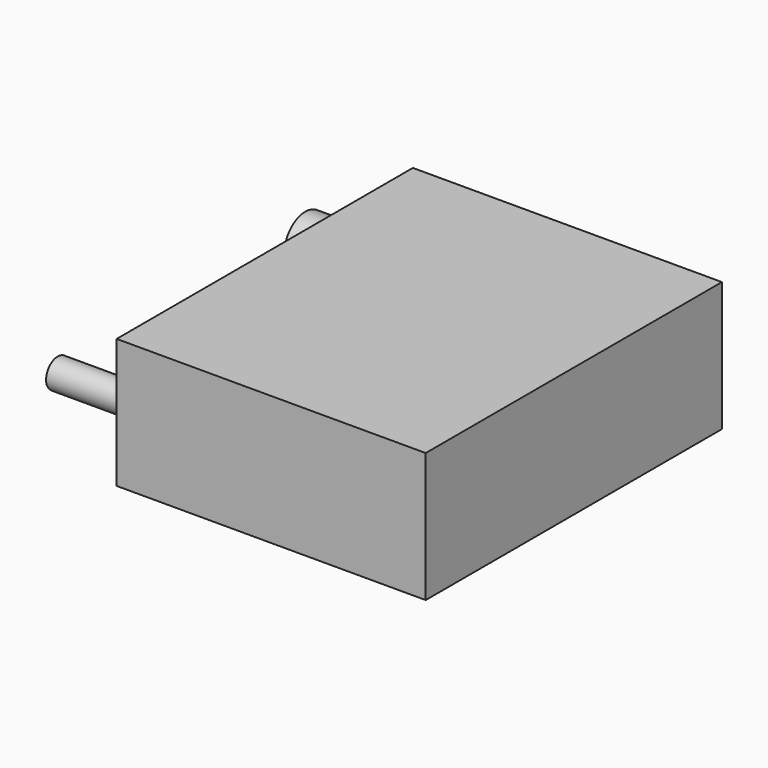
from build123d import *

# Parameters (mm, degrees)
F0_W     = 106
F0_H     = 127
F1_DEPTH = 44.4
F2_R     = 9
F3_DEPTH = 22.5
F2_R_2   = 5
F4_DEPTH = 26.6


with BuildPart() as f1:
    # F0 (on Top) → F1 (new body)
    with BuildSketch(Plane.XY):
        with Locations((-53, 63.5)):
            Rectangle(F0_W, F0_H)
    extrude(amount=F1_DEPTH)

    # F2 (on face) → F3 (join)
    with BuildSketch(Plane(origin=(-106, 0, 0), x_dir=(0, -1, 0), z_dir=(-1, 0, 0))):
        with Locations((-109, 22.2)):
            Circle(F2_R)
    extrude(amount=F3_DEPTH)

    # F2 (on face) → F4 (join)
    with BuildSketch(Plane(origin=(-106, 0, 0), x_dir=(0, -1, 0), z_dir=(-1, 0, 0))):
        with Locations((-8, 22.2)):
            Circle(F2_R_2)
    extrude(amount=F4_DEPTH)


solid = f1.part
